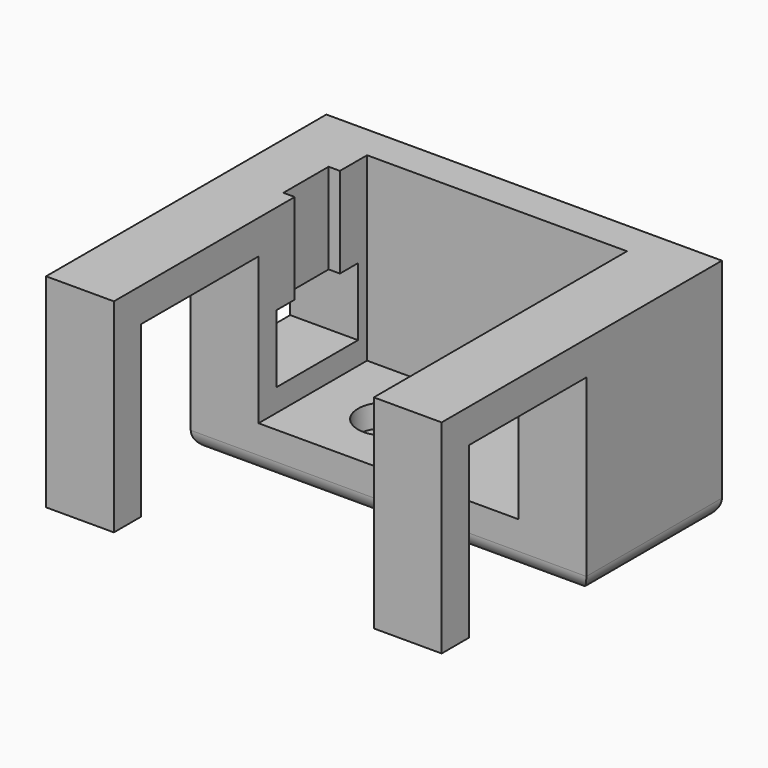
from build123d import *

# Parameters (mm, degrees)
CYLINDER026_R     = 2.5
CYLINDER026_DEPTH = 9
CYLINDER025_R     = 1.5
CYLINDER025_DEPTH = 14
BOX018_W          = 2
BOX018_H          = 5
BOX018_DEPTH      = 14
BOX010_W          = 8
BOX010_H          = 27
BOX010_DEPTH      = 15
BOX009_W          = 6
BOX009_H          = 16
BOX009_DEPTH      = 18
BOX012_W          = 8
BOX012_H          = 27
BOX012_DEPTH      = 15
BOX011_W          = 6
BOX011_H          = 16
BOX011_DEPTH      = 18
BOX015_W          = 26
BOX015_H          = 9
BOX015_DEPTH      = 6
BOX014_W          = 23
BOX014_H          = 23
BOX014_DEPTH      = 12
BOX014_ROLL_ANGLE = 90
BOX013_W          = 35
BOX013_H          = 15
BOX013_DEPTH      = 20
FILLET_R          = 1.5


with BuildPart() as cilindro009:
    # Cylinder026 → Cylinder026 (new body)
    with BuildSketch(Plane(origin=(0, 0, 1), x_dir=(-1, 0, 0), z_dir=(0, 0, -1))):
        Circle(CYLINDER026_R)
    extrude(amount=CYLINDER026_DEPTH)


with BuildPart() as fusion009:
    # Cylinder025 → Cylinder025 (new body)
    with BuildSketch(Plane(origin=(0, 0, -2), x_dir=(-1, 0, 0), z_dir=(0, 0, -1))):
        Circle(CYLINDER025_R)
    extrude(amount=CYLINDER025_DEPTH)

    # Fusion019: union Cilindro009
    add(cilindro009.part)


with BuildPart() as cubo014:
    # Box018 → Box018 (new body)
    with BuildSketch(Plane(origin=(-7.5, -2, 0), x_dir=(1, 0, 0), z_dir=(0, 0, 1))):
        with Locations((1, 2.5)):
            Rectangle(BOX018_W, BOX018_H)
    extrude(amount=BOX018_DEPTH)


with BuildPart() as cubo007:
    # Box010 → Box010 (new body)
    with BuildSketch(Plane(origin=(16.5, -19, -8), x_dir=(1, 0, 0), z_dir=(0, 0, 1))):
        with Locations((4, 13.5)):
            Rectangle(BOX010_W, BOX010_H)
    extrude(amount=BOX010_DEPTH)


with BuildPart() as cut014:
    # Box009 → Box009 (new body)
    with BuildSketch(Plane(origin=(16.5, -22, -8), x_dir=(1, 0, 0), z_dir=(0, 0, 1))):
        with Locations((3, 8)):
            Rectangle(BOX009_W, BOX009_H)
    extrude(amount=BOX009_DEPTH)

    # Cut014: cut Cubo007
    add(cubo007.part, mode=Mode.SUBTRACT)


with BuildPart() as cubo009:
    # Box012 → Box012 (new body)
    with BuildSketch(Plane(origin=(16.5, -19, -8), x_dir=(1, 0, 0), z_dir=(0, 0, 1))):
        with Locations((4, 13.5)):
            Rectangle(BOX012_W, BOX012_H)
    extrude(amount=BOX012_DEPTH)


with BuildPart() as cut015:
    # Box011 → Box011 (new body)
    with BuildSketch(Plane(origin=(16.5, -22, -8), x_dir=(1, 0, 0), z_dir=(0, 0, 1))):
        with Locations((3, 8)):
            Rectangle(BOX011_W, BOX011_H)
    extrude(amount=BOX011_DEPTH)

    # Cut015: cut Cubo009
    add(cubo009.part, mode=Mode.SUBTRACT)


with BuildPart() as cut015_1:
    # Cut015 placement: moved
    add(cut015.part.moved(Location((-29, 0, 0))))


with BuildPart() as cubo011:
    # Box015 → Box015 (new body)
    with BuildSketch(Plane(origin=(-28, -4, -4), x_dir=(1, 0, 0), z_dir=(0, 0, 1))):
        with Locations((13, 4.5)):
            Rectangle(BOX015_W, BOX015_H)
    extrude(amount=BOX015_DEPTH)


with BuildPart() as obj1:
    # Box014 → Box014 (new body)
    with BuildSketch(Plane.XY):
        with Locations((11.5, 11.5)):
            Rectangle(BOX014_W, BOX014_H)
    extrude(amount=BOX014_DEPTH)


with BuildPart() as obj1_1:
    # Box014 roll: moved
    add(obj1.part.rotate(Axis((0, 0, 0), (1, 0, 0)), BOX014_ROLL_ANGLE))


with BuildPart() as obj1_2:
    # Box014 placement: moved
    add(obj1_1.part.moved(Location((-6.5, 6, -6))))


with BuildPart() as obj2:
    # Box013 → Box013 (new body)
    with BuildSketch(Plane(origin=(-12.5, -6, -10), x_dir=(1, 0, 0), z_dir=(0, 0, 1))):
        with Locations((17.5, 7.5)):
            Rectangle(BOX013_W, BOX013_H)
    extrude(amount=BOX013_DEPTH)

    # Cut016: cut obj1
    add(obj1_2.part, mode=Mode.SUBTRACT)

    # Cut017: cut Cubo011
    add(cubo011.part, mode=Mode.SUBTRACT)

    # Fusion006: union Cut014, Cut015
    add(cut014.part)
    add(cut015_1.part)

    # Fillet
    fillet_edges = [obj2.edges().sort_by_distance(p)[0] for p in [
        (-12.5, 1.5, -10),
        (5, 9, -10),
        (22.5, 1.5, -10),
        (5, -6, -10),
    ]]
    fillet(fillet_edges, radius=FILLET_R)

    # Cut024: cut Cubo014
    add(cubo014.part, mode=Mode.SUBTRACT)

    # Cut041: cut Fusion009
    add(fusion009.part, mode=Mode.SUBTRACT)


solid = obj2.part
